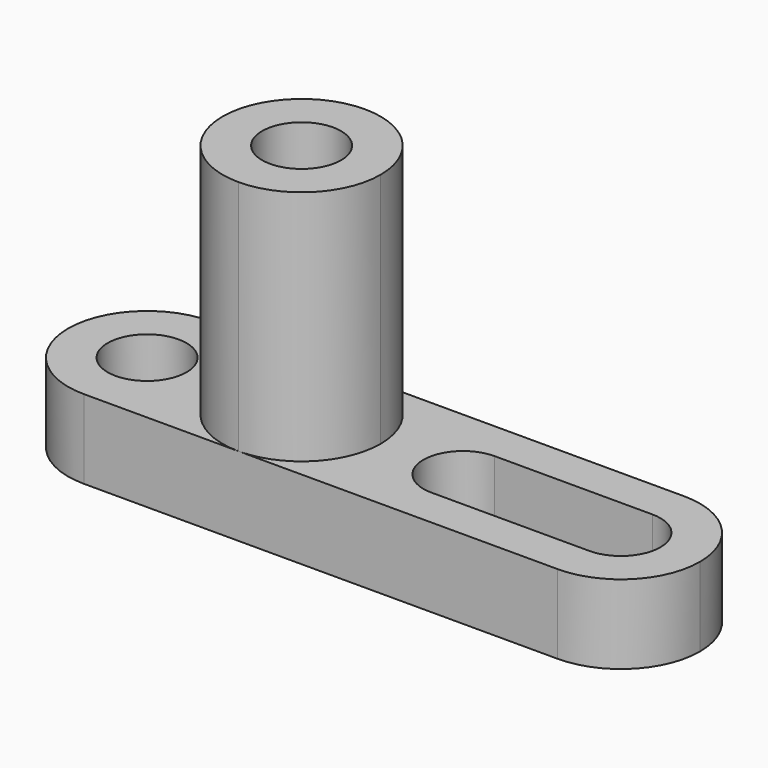
from build123d import *

# Parameters (mm, degrees)
F0_W     = 101.6
F0_H     = 25.4
F1_DEPTH = 12.7
F2_R     = 6.35
F3_DEPTH = 25.4
F4_R     = 6.35
F5_DEPTH = 38.1


with BuildPart() as f1:
    # F0 (on Top) → F1 (new body)
    with BuildSketch(Plane.XY):
        with Locations((17.584615, 12.7)):
            Rectangle(F0_W, F0_H)
    extrude(amount=-F1_DEPTH)

    # F2 (on face) → F3 (cut)
    with BuildSketch(Plane.XY):
        with BuildLine():
            ThreePointArc((55.684615, 6.35), (60.174744, 8.209872), (62.034615, 12.7))
            ThreePointArc((62.034615, 12.7), (60.174744, 17.190128), (55.684615, 19.05))
            ThreePointArc((55.684615, 19.05), (49.334615, 12.7), (55.684615, 6.35))
        make_face()
        with BuildLine():
            ThreePointArc((36.634615, 12.7), (34.774744, 17.190128), (30.284615, 19.05))
            ThreePointArc((30.284615, 19.05), (23.934615, 12.7), (30.284615, 6.35))
            ThreePointArc((30.284615, 6.35), (34.774744, 8.209872), (36.634615, 12.7))
        make_face()
        with BuildLine():
            ThreePointArc((-33.215385, 12.7), (-29.495641, 21.680256), (-20.515385, 25.4))
            Line((-20.515385, 25.4), (-33.215385, 25.4))
            Line((-33.215385, 25.4), (-33.215385, 12.7))
        make_face()
        with BuildLine():
            ThreePointArc((-20.515385, 0), (-29.495641, 3.719744), (-33.215385, 12.7))
            Line((-33.215385, 12.7), (-33.215385, 0))
            Line((-33.215385, 0), (-20.515385, 0))
        make_face()
        with BuildLine():
            Line((68.384615, 25.4), (55.684615, 25.4))
            ThreePointArc((55.684615, 25.4), (64.664872, 21.680256), (68.384615, 12.7))
            Line((68.384615, 12.7), (68.384615, 25.4))
        make_face()
        with BuildLine():
            Line((68.384615, 0), (68.384615, 12.7))
            ThreePointArc((68.384615, 12.7), (64.664872, 3.719744), (55.684615, 0))
            Line((55.684615, 0), (68.384615, 0))
        make_face()
        with BuildLine():
            ThreePointArc((55.684615, 6.35), (49.334615, 12.7), (55.684615, 19.05))
            Line((55.684615, 19.05), (30.284615, 19.05))
            ThreePointArc((30.284615, 19.05), (34.774744, 17.190128), (36.634615, 12.7))
            ThreePointArc((36.634615, 12.7), (34.774744, 8.209872), (30.284615, 6.35))
            Line((30.284615, 6.35), (55.684615, 6.35))
        make_face()
        with Locations((-20.515385, 12.7)):
            Circle(F2_R)
    extrude(amount=-F3_DEPTH, mode=Mode.SUBTRACT)

    # F4 (on face) → F5 (join)
    with BuildSketch(Plane.XY):
        with BuildLine():
            ThreePointArc((4.333231, 0), (13.313487, 3.719744), (17.033231, 12.7))
            ThreePointArc((17.033231, 12.7), (13.313487, 21.680256), (4.333231, 25.4))
            ThreePointArc((4.333231, 25.4), (-8.366769, 12.7), (4.333231, 0))
        make_face()
        with Locations((4.333231, 12.7)):
            Circle(F4_R, mode=Mode.SUBTRACT)
    extrude(amount=F5_DEPTH)


solid = f1.part
